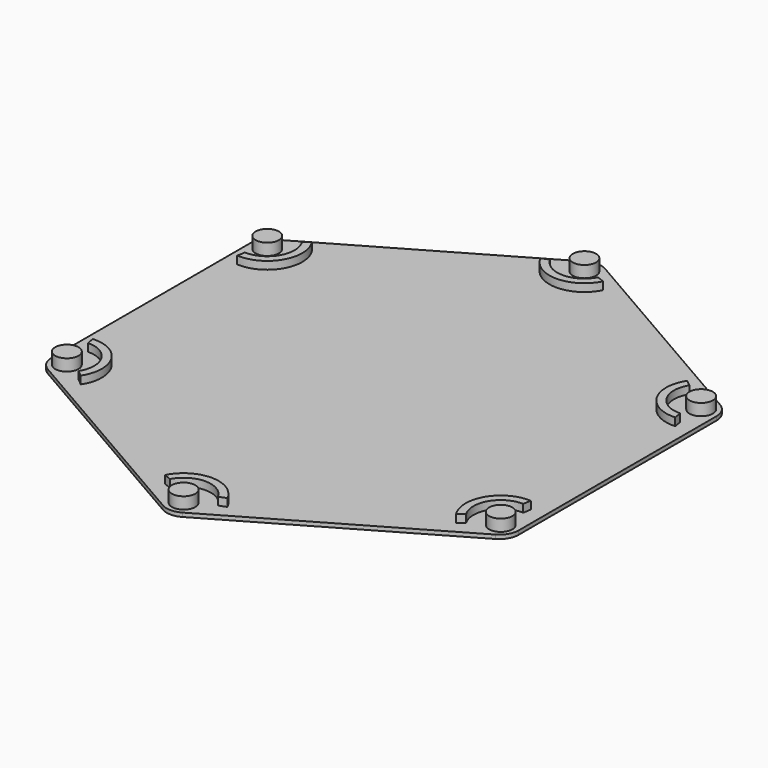
from build123d import *

# Parameters (mm, degrees)
F0_R     = 3
F1_DEPTH = 1
F2_DEPTH = 3
F3_DEPTH = 4


with BuildPart() as f1:
    # F0 (on Top) → F1 (new body)
    with BuildSketch(Plane.XY):
        with BuildLine():
            Line((60, -31.7542648054), (60, 31.7542648054))
            ThreePointArc((60, 31.7542648054), (59.3301270189, 34.2542648054), (57.5, 36.0843918244))
            Line((57.5, 36.0843918244), (2.5, 67.8386566298))
            ThreePointArc((2.5, 67.8386566298), (0, 68.5085296109), (-2.5, 67.8386566298))
            Line((-2.5, 67.8386566298), (-57.5, 36.0843918244))
            ThreePointArc((-57.5, 36.0843918244), (-59.3301270189, 34.2542648054), (-60, 31.7542648054))
            Line((-60, 31.7542648054), (-60, -31.7542648054))
            ThreePointArc((-60, -31.7542648054), (-59.3301270189, -34.2542648054), (-57.5, -36.0843918244))
            Line((-57.5, -36.0843918244), (-2.5, -67.8386566298))
            ThreePointArc((-2.5, -67.8386566298), (0, -68.5085296109), (2.5, -67.8386566298))
            Line((2.5, -67.8386566298), (57.5, -36.0843918244))
            ThreePointArc((57.5, -36.0843918244), (59.3301270189, -34.2542648054), (60, -31.7542648054))
        make_face()
        with Locations((-55.7296181053, -32.1755099552)):
            Circle(F0_R, mode=Mode.SUBTRACT)
        with BuildLine():
            Line((-48.2098294683, -37.1204850669), (-49.760809999, -35.8324663113))
            ThreePointArc((-49.760809999, -35.8324663113), (-49.667440276, -28.6755099601), (-55.9122311458, -25.1778923265))
            Line((-55.9122311458, -25.1778923265), (-56.2521978402, -23.1906944078))
            ThreePointArc((-56.2521978402, -23.1906944078), (-47.9353894676, -27.6755099615), (-48.2098294683, -37.1204850669))
        make_face(mode=Mode.SUBTRACT)
        with Locations((0, -64.35102)):
            Circle(F0_R, mode=Mode.SUBTRACT)
        with BuildLine():
            Line((8.042368383, -60.3111795587), (6.1514211554, -61.0103587227))
            ThreePointArc((6.1514211554, -61.0103587227), (0, -57.35102), (-6.1514211554, -61.0103587227))
            Line((-6.1514211554, -61.0103587227), (-8.042368383, -60.3111795587))
            ThreePointArc((-8.042368383, -60.3111795587), (0, -55.35102), (8.042368383, -60.3111795587))
        make_face(mode=Mode.SUBTRACT)
        with BuildLine():
            Line((56.2521977284, -23.190694679), (55.9122310244, -25.1778925961))
            ThreePointArc((55.9122310244, -25.1778925961), (49.6674401378, -28.6755101995), (49.7608098263, -35.8324665512))
            Line((49.7608098263, -35.8324665512), (48.2098292894, -37.1204852993))
            ThreePointArc((48.2098292894, -37.1204852993), (47.9353893342, -27.6755101926), (56.2521977284, -23.190694679))
        make_face(mode=Mode.SUBTRACT)
        with Locations((55.7296179502, -32.1755102239)):
            Circle(F0_R, mode=Mode.SUBTRACT)
        with Locations((-55.7296180277, 32.1755100895)):
            Circle(F0_R, mode=Mode.SUBTRACT)
        with BuildLine():
            Line((-56.2521977843, 23.1906945434), (-55.9122310851, 25.1778924613))
            ThreePointArc((-55.9122310851, 25.1778924613), (-49.6674402069, 28.6755100798), (-49.7608099126, 35.8324664312))
            Line((-49.7608099126, 35.8324664312), (-48.2098293788, 37.1204851831))
            ThreePointArc((-48.2098293788, 37.1204851831), (-47.9353894009, 27.675510077), (-56.2521977843, 23.1906945434))
        make_face(mode=Mode.SUBTRACT)
        with BuildLine():
            Line((48.2098295578, 37.1204849507), (49.7608100854, 35.8324661914))
            ThreePointArc((49.7608100854, 35.8324661914), (49.6674403451, 28.6755098404), (55.9122312065, 25.1778921918))
            Line((55.9122312065, 25.1778921918), (56.2521978961, 23.1906942723))
            ThreePointArc((56.2521978961, 23.1906942723), (47.9353895343, 27.675509846), (48.2098295578, 37.1204849507))
        make_face(mode=Mode.SUBTRACT)
        with Locations((55.7296181828, 32.1755098209)):
            Circle(F0_R, mode=Mode.SUBTRACT)
        with BuildLine():
            Line((-8.0423682377, 60.311179578), (-6.1514210083, 61.0103587375))
            ThreePointArc((-6.1514210083, 61.0103587375), (1.382e-07, 57.35102), (6.1514213024, 61.0103587079))
            Line((6.1514213024, 61.0103587079), (8.0423685284, 60.3111795393))
            ThreePointArc((8.0423685284, 60.3111795393), (1.334e-07, 55.35102), (-8.0423682377, 60.311179578))
        make_face(mode=Mode.SUBTRACT)
        with Locations((1.551e-07, 64.35102)):
            Circle(F0_R, mode=Mode.SUBTRACT)
    extrude(amount=F1_DEPTH)

    # F0 (on Top) → F2 (join)
    with BuildSketch(Plane.XY):
        with BuildLine():
            ThreePointArc((-6.1514211554, -61.0103587227), (0, -57.35102), (6.1514211554, -61.0103587227))
            Line((6.1514211554, -61.0103587227), (8.042368383, -60.3111795587))
            ThreePointArc((8.042368383, -60.3111795587), (0, -55.35102), (-8.042368383, -60.3111795587))
            Line((-8.042368383, -60.3111795587), (-6.1514211554, -61.0103587227))
        make_face()
        with BuildLine():
            ThreePointArc((-55.9122311458, -25.1778923265), (-49.667440276, -28.6755099601), (-49.760809999, -35.8324663113))
            Line((-49.760809999, -35.8324663113), (-48.2098294683, -37.1204850669))
            ThreePointArc((-48.2098294683, -37.1204850669), (-47.9353894676, -27.6755099615), (-56.2521978402, -23.1906944078))
            Line((-56.2521978402, -23.1906944078), (-55.9122311458, -25.1778923265))
        make_face()
        with BuildLine():
            ThreePointArc((49.7608098263, -35.8324665512), (49.6674401378, -28.6755101995), (55.9122310244, -25.1778925961))
            Line((55.9122310244, -25.1778925961), (56.2521977284, -23.190694679))
            ThreePointArc((56.2521977284, -23.190694679), (47.9353893342, -27.6755101926), (48.2098292894, -37.1204852993))
            Line((48.2098292894, -37.1204852993), (49.7608098263, -35.8324665512))
        make_face()
        with BuildLine():
            ThreePointArc((-49.7608099126, 35.8324664312), (-49.6674402069, 28.6755100798), (-55.9122310851, 25.1778924613))
            Line((-55.9122310851, 25.1778924613), (-56.2521977843, 23.1906945434))
            ThreePointArc((-56.2521977843, 23.1906945434), (-47.9353894009, 27.675510077), (-48.2098293788, 37.1204851831))
            Line((-48.2098293788, 37.1204851831), (-49.7608099126, 35.8324664312))
        make_face()
        with BuildLine():
            ThreePointArc((6.1514213024, 61.0103587079), (1.382e-07, 57.35102), (-6.1514210083, 61.0103587375))
            Line((-6.1514210083, 61.0103587375), (-8.0423682377, 60.311179578))
            ThreePointArc((-8.0423682377, 60.311179578), (1.334e-07, 55.35102), (8.0423685284, 60.3111795393))
            Line((8.0423685284, 60.3111795393), (6.1514213024, 61.0103587079))
        make_face()
        with BuildLine():
            ThreePointArc((55.9122312065, 25.1778921918), (49.6674403451, 28.6755098404), (49.7608100854, 35.8324661914))
            Line((49.7608100854, 35.8324661914), (48.2098295578, 37.1204849507))
            ThreePointArc((48.2098295578, 37.1204849507), (47.9353895343, 27.675509846), (56.2521978961, 23.1906942723))
            Line((56.2521978961, 23.1906942723), (55.9122312065, 25.1778921918))
        make_face()
    extrude(amount=F2_DEPTH)

    # F0 (on Top) → F3 (join)
    with BuildSketch(Plane.XY):
        with Locations((-55.7296181053, -32.1755099552)):
            Circle(F0_R)
        with Locations((0, -64.35102)):
            Circle(F0_R)
        with Locations((55.7296179502, -32.1755102239)):
            Circle(F0_R)
        with Locations((55.7296181828, 32.1755098209)):
            Circle(F0_R)
        with Locations((1.551e-07, 64.35102)):
            Circle(F0_R)
        with Locations((-55.7296180277, 32.1755100895)):
            Circle(F0_R)
    extrude(amount=F3_DEPTH)


solid = f1.part
